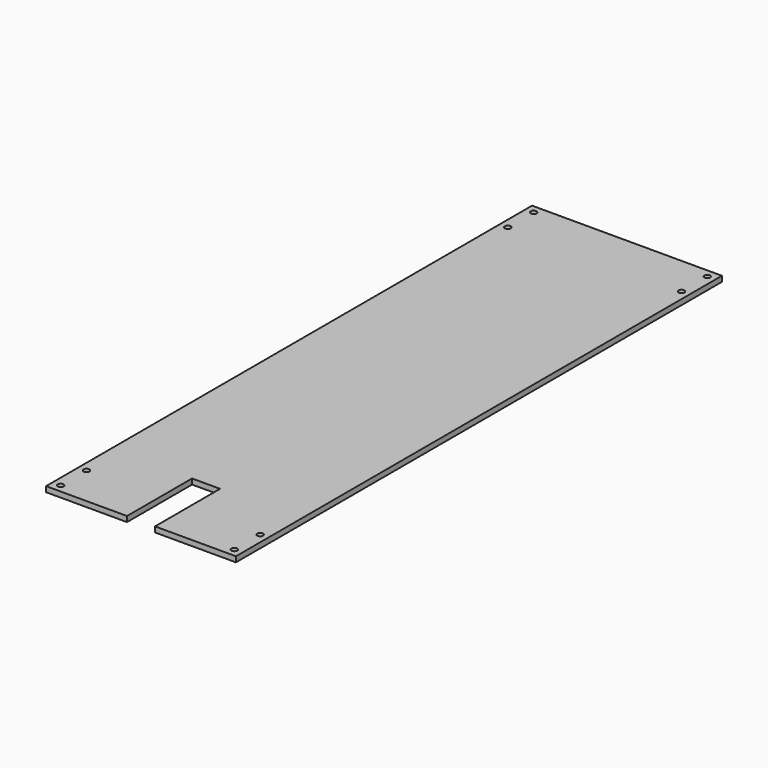
from build123d import *

# Parameters (mm, degrees)
F0_W     = 111.8249478
F0_H     = 357.780717
F0_R     = 1.7272
F1_DEPTH = 3.175
F2_W     = 16.51
F2_H     = 47.9032060428
F3_DEPTH = 3.175


with BuildPart() as f1:
    # F0 (on Top) → F1 (new body)
    with BuildSketch(Plane.XY):
        Rectangle(F0_W, F0_H)
        with Locations((-51.1499739, -174.1278585)):
            Circle(F0_R, mode=Mode.SUBTRACT)
        with Locations((-51.1499739, -155.0778585)):
            Circle(F0_R, mode=Mode.SUBTRACT)
        with Locations((51.1499739, -174.1278585)):
            Circle(F0_R, mode=Mode.SUBTRACT)
        with Locations((51.1499739, -155.0778585)):
            Circle(F0_R, mode=Mode.SUBTRACT)
        with Locations((-51.1499739, 155.0778585)):
            Circle(F0_R, mode=Mode.SUBTRACT)
        with Locations((-51.1499739, 174.1278585)):
            Circle(F0_R, mode=Mode.SUBTRACT)
        with Locations((51.1499739, 155.0778585)):
            Circle(F0_R, mode=Mode.SUBTRACT)
        with Locations((51.1499739, 174.1278585)):
            Circle(F0_R, mode=Mode.SUBTRACT)
    extrude(amount=F1_DEPTH)

    # F2 (on face) → F3 (cut, through all)
    with BuildSketch(Plane.XY.offset(3.175)):
        with Locations((0, -154.9387554786)):
            Rectangle(F2_W, F2_H)
    extrude(amount=-F3_DEPTH, mode=Mode.SUBTRACT)


solid = f1.part
